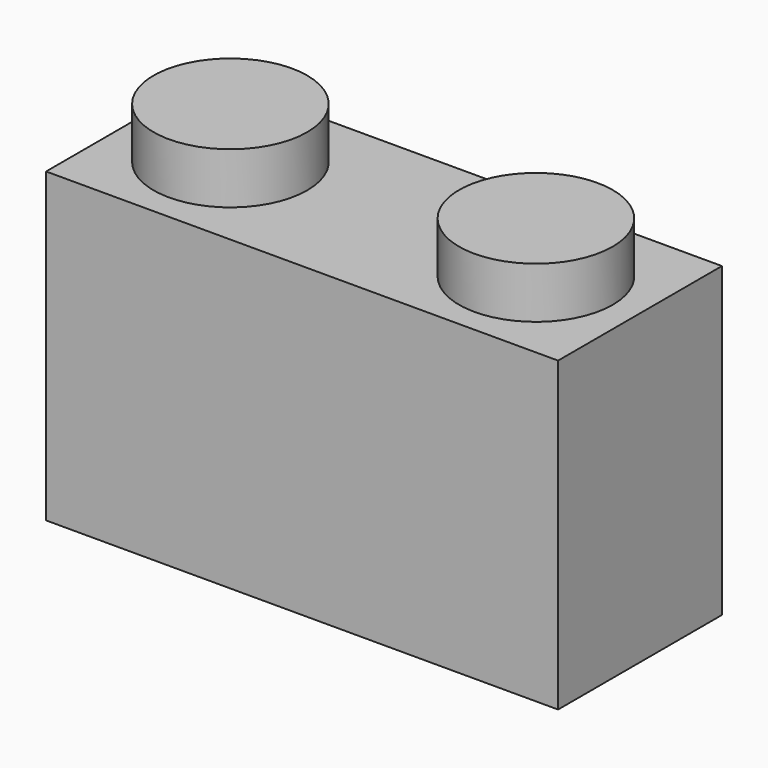
from build123d import *

# Parameters (mm, degrees)
F0_W     = 100
F0_H     = 60
F1_DEPTH = 40
F3_R     = 15
F4_DEPTH = 10
F5_W     = 90
F5_H     = 30
F6_DEPTH = 40


with BuildPart() as f1:
    # F0 (on Front) → F1 (new body)
    with BuildSketch(Plane.XZ):
        Rectangle(F0_W, F0_H)
    extrude(amount=F1_DEPTH)

    # F3 (on face) → F4 (join)
    with BuildSketch(Plane.XY.offset(30)):
        with Locations((-30, -20)):
            Circle(F3_R)
        with Locations((30, -20.411897)):
            Circle(F3_R)
    extrude(amount=F4_DEPTH)

    # F5 (on face) → F6 (cut)
    with BuildSketch(Plane(origin=(0, 0, -30), x_dir=(1, 0, 0), z_dir=(0, 0, -1))):
        with Locations((0, 20)):
            Rectangle(F5_W, F5_H)
    extrude(amount=-F6_DEPTH, mode=Mode.SUBTRACT)


solid = f1.part
